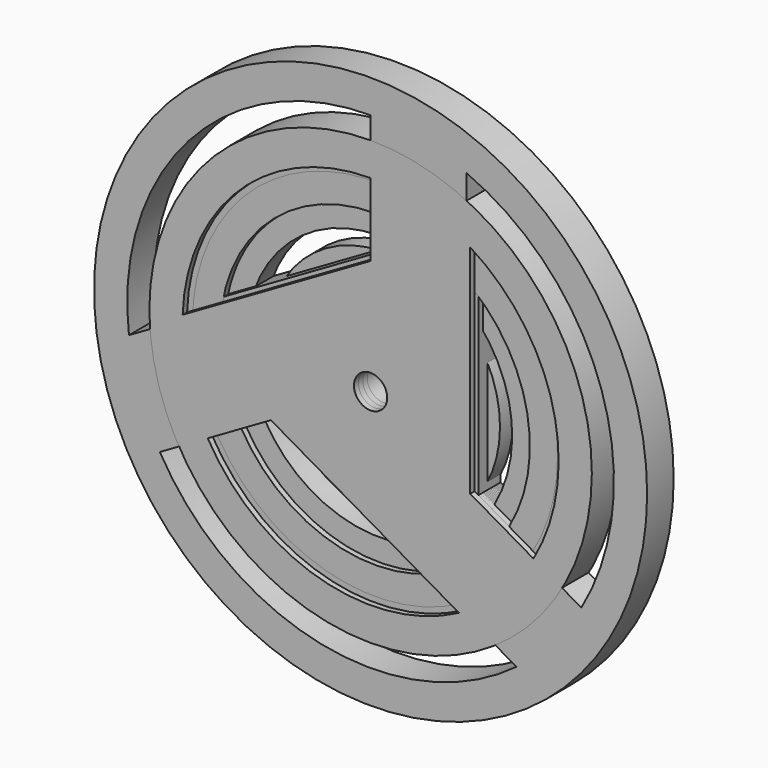
from build123d import *

# Parameters (mm, degrees)
F0_R      = 250
F0_R_2    = 15
F1_DEPTH  = 30
F2_R      = 200
F2_R_2    = 15
F3_DEPTH  = 30
F4_R      = 185
F4_R_2    = 15
F5_DEPTH  = 25
F6_R      = 165
F6_R_2    = 15
F7_DEPTH  = 25
F8_R      = 140
F8_R_2    = 15
F9_DEPTH  = 20
F10_R     = 105
F10_R_2   = 15
F11_DEPTH = 15


with BuildPart() as f1:
    # F0 (on Front) → F1 (new body)
    with BuildSketch(Plane.XZ):
        Circle(F0_R)
        with BuildLine():
            Line((-190.525589, -110), (-86.60254, -50))
            Line((-86.60254, -50), (131.841529, -176.118742))
            ThreePointArc((131.841529, -176.118742), (-44.202678, -215.513627), (-190.525589, -110))
        make_face(mode=Mode.SUBTRACT)
        with BuildLine():
            ThreePointArc((-218.444069, -26.118742), (-164.538937, 146.037455), (0, 220))
            Line((0, 220), (0, 100))
            Line((0, 100), (-218.444069, -26.118742))
        make_face(mode=Mode.SUBTRACT)
        Circle(F0_R_2, mode=Mode.SUBTRACT)
        with BuildLine():
            Line((190.525589, -110), (86.60254, -50))
            Line((86.60254, -50), (86.60254, 202.237484))
            ThreePointArc((86.60254, 202.237484), (208.741615, 69.476171), (190.525589, -110))
        make_face(mode=Mode.SUBTRACT)
    extrude(amount=F1_DEPTH)


with BuildPart() as f3:
    # F2 (on Front) → F3 (new body)
    with BuildSketch(Plane.XZ):
        Circle(F2_R)
        with BuildLine():
            ThreePointArc((79.830605, -150.090221), (-46.847224, -163.417678), (-147.224319, -85))
            Line((-147.224319, -85), (-90.066642, -52))
            Line((-90.066642, -52), (79.830605, -150.090221))
        make_face(mode=Mode.SUBTRACT)
        with BuildLine():
            ThreePointArc((-169.897247, 5.909779), (-118.100249, 122.279725), (0, 170))
            Line((0, 170), (0, 104))
            Line((0, 104), (-169.897247, 5.909779))
        make_face(mode=Mode.SUBTRACT)
        Circle(F2_R_2, mode=Mode.SUBTRACT)
        with BuildLine():
            ThreePointArc((90.066642, 144.180443), (164.947473, 41.137953), (147.224319, -85))
            Line((147.224319, -85), (90.066642, -52))
            Line((90.066642, -52), (90.066642, 144.180443))
        make_face(mode=Mode.SUBTRACT)
    extrude(amount=F3_DEPTH)


with BuildPart() as f5:
    # F4 (on Front) → F5 (new body)
    with BuildSketch(Plane.XZ):
        Circle(F4_R)
        with BuildLine():
            ThreePointArc((65.657935, -145.907627), (-49.140408, -152.266938), (-138.564065, -80))
            Line((-138.564065, -80), (-93.530744, -54))
            Line((-93.530744, -54), (65.657935, -145.907627))
        make_face(mode=Mode.SUBTRACT)
        with BuildLine():
            ThreePointArc((-159.188679, 16.092373), (-107.296832, 118.690311), (0, 160))
            Line((0, 160), (0, 108))
            Line((0, 108), (-159.188679, 16.092373))
        make_face(mode=Mode.SUBTRACT)
        Circle(F4_R_2, mode=Mode.SUBTRACT)
        with BuildLine():
            ThreePointArc((93.530744, 129.815253), (156.43724, 33.576627), (138.564065, -80))
            Line((138.564065, -80), (93.530744, -54))
            Line((93.530744, -54), (93.530744, 129.815253))
        make_face(mode=Mode.SUBTRACT)
    extrude(amount=F5_DEPTH)


with BuildPart() as f7:
    # F6 (on Front) → F7 (new body)
    with BuildSketch(Plane.XZ):
        Circle(F6_R)
        with BuildLine():
            ThreePointArc((79.76672, -115.053337), (-30.619157, -136.610641), (-121.243557, -70))
            Line((-121.243557, -70), (-59.755753, -34.5))
            Line((-59.755753, -34.5), (79.76672, -115.053337))
        make_face(mode=Mode.SUBTRACT)
        with BuildLine():
            ThreePointArc((-139.522473, -11.553337), (-102.998707, 94.822288), (0, 140))
            Line((0, 140), (0, 69))
            Line((0, 69), (-139.522473, -11.553337))
        make_face(mode=Mode.SUBTRACT)
        Circle(F6_R_2, mode=Mode.SUBTRACT)
        with BuildLine():
            ThreePointArc((59.755753, 126.606674), (133.617864, 41.788352), (121.243557, -70))
            Line((121.243557, -70), (59.755753, -34.5))
            Line((59.755753, -34.5), (59.755753, 126.606674))
        make_face(mode=Mode.SUBTRACT)
    extrude(amount=F7_DEPTH)


with BuildPart() as f9:
    # F8 (on Front) → F9 (new body)
    with BuildSketch(Plane.XZ):
        Circle(F8_R)
        with BuildLine():
            ThreePointArc((76.703851, -92.284989), (-21.114007, -118.127891), (-103.923048, -60))
            Line((-103.923048, -60), (-41.569219, -24))
            Line((-41.569219, -24), (76.703851, -92.284989))
        make_face(mode=Mode.SUBTRACT)
        with BuildLine():
            ThreePointArc((-118.273071, -20.284989), (-91.744751, 77.349212), (0, 120))
            Line((0, 120), (0, 48))
            Line((0, 48), (-118.273071, -20.284989))
        make_face(mode=Mode.SUBTRACT)
        Circle(F8_R_2, mode=Mode.SUBTRACT)
        with BuildLine():
            ThreePointArc((41.569219, 112.569978), (112.858758, 40.778679), (103.923048, -60))
            Line((103.923048, -60), (41.569219, -24))
            Line((41.569219, -24), (41.569219, 112.569978))
        make_face(mode=Mode.SUBTRACT)
    extrude(amount=F9_DEPTH)


with BuildPart() as f11:
    # F10 (on Front) → F11 (new body)
    with BuildSketch(Plane.XZ):
        Circle(F10_R)
        with BuildLine():
            ThreePointArc((49.128371, -69.364278), (-18.173781, -83.034413), (-73.612159, -42.5))
            Line((-73.612159, -42.5), (-35.507042, -20.5))
            Line((-35.507042, -20.5), (49.128371, -69.364278))
        make_face(mode=Mode.SUBTRACT)
        with BuildLine():
            ThreePointArc((-84.635413, -7.864278), (-62.82302, 57.256163), (0, 85))
            Line((0, 85), (0, 41))
            Line((0, 41), (-84.635413, -7.864278))
        make_face(mode=Mode.SUBTRACT)
        Circle(F10_R_2, mode=Mode.SUBTRACT)
        with BuildLine():
            ThreePointArc((35.507042, 77.228557), (80.996801, 25.77825), (73.612159, -42.5))
            Line((73.612159, -42.5), (35.507042, -20.5))
            Line((35.507042, -20.5), (35.507042, 77.228557))
        make_face(mode=Mode.SUBTRACT)
    extrude(amount=F11_DEPTH)


solid = Compound([f1.part, f3.part, f5.part, f7.part, f9.part, f11.part])
